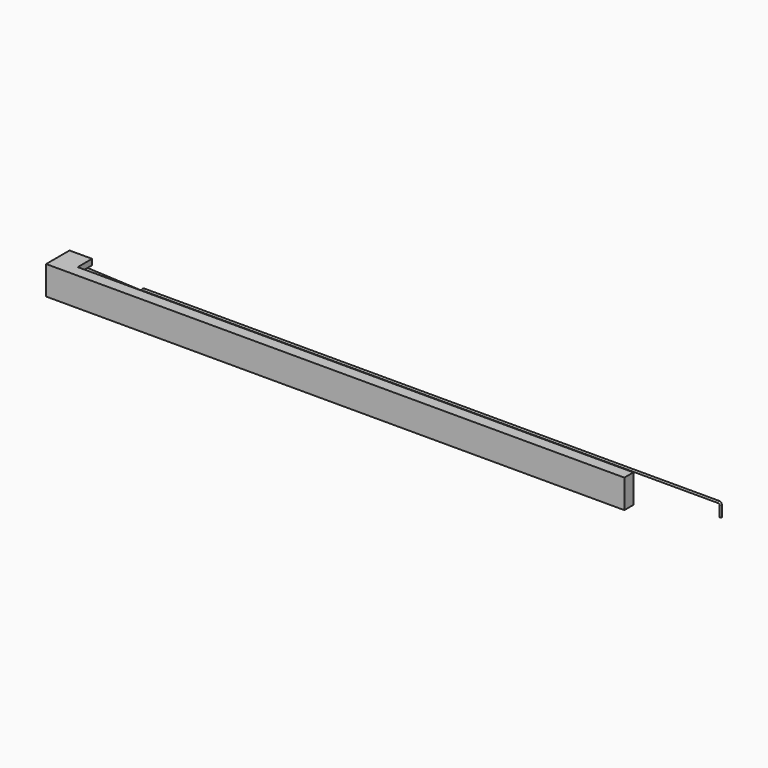
from build123d import *

# Parameters (mm, degrees)
F1_R     = 2.5
F1_R_2   = 0.5
F2_DEPTH = 1.25
F5_R     = 0.5
F8_DEPTH = 300
F7_W     = 9.3189708423
F7_H     = 2.9665171169
F7_H_2   = 2.5825281627
F9_DEPTH = 11.7


with BuildPart() as f2:
    # F1 (on face) → F2 (new body, symmetric)
    with BuildSketch(Plane.XY):
        with BuildLine():
            ThreePointArc((40.15625, -2.4951124098), (42.5, 0), (40.15625, 2.4951124098))
            Line((40.15625, 2.4951124098), (0.3125, 4.9902248196))
            ThreePointArc((0.3125, 4.9902248196), (-5, 0), (0.3125, -4.9902248196))
            Line((0.3125, -4.9902248196), (40.15625, -2.4951124098))
        make_face()
        Circle(F1_R, mode=Mode.SUBTRACT)
        with Locations((40, 0)):
            Circle(F1_R_2, mode=Mode.SUBTRACT)
    extrude(amount=F2_DEPTH, both=True)


with BuildPart() as f6:
    # F6: sweep along a path in F3
    with BuildLine(Plane.XZ) as f6_path:
        Line((339.9458743632, -2.672146773), (339.9458743632, 2.8238787092))
        ThreePointArc((339.9458743632, 2.8238787092), (339.6529811444, 3.5309854904), (338.9458743632, 3.8238787092))
        Line((338.9458743632, 3.8238787092), (40.9458743632, 3.8238787092))
        ThreePointArc((40.9458743632, 3.8238787092), (40.238767582, 3.5309854904), (39.9458743632, 2.8238787092))
        Line((39.9458743632, 2.8238787092), (39.9458743632, 0))
        Line((39.9458743632, 0), (39.9458743632, -1.672146773))
        ThreePointArc((39.9458743632, -1.672146773), (39.6529811444, -2.3792535542), (38.9458743632, -2.672146773))
        Line((38.9458743632, -2.672146773), (32.4798679948, -2.672146773))
    # F5 (on plane+point) → F6 (sweep)
    with BuildSketch(Plane.XY.offset(-2.672146773)):
        with Locations((339.9465382099, 0)):
            Circle(F5_R)
    sweep(path=f6_path.line)


with BuildPart() as f8:
    # F7 (on Right) → F8 (new body)
    with BuildSketch(Plane.YZ):
        Polygon((-6.6419336945, 7.4009038508), (-12.5363953412, 7.4009038508), (-12.5363953412, -7.4531384744), (-6.6419336945, -7.4531384744), (-6.6419336945, -4.8706103116), (-6.6419336945, 4.4343867339), align=None)
    extrude(amount=F8_DEPTH)

    # F7 (on Right) → F9 (join)
    with BuildSketch(Plane.YZ):
        with Locations((-1.9824482733, 5.9176452924)):
            Rectangle(F7_W, F7_H)
        with Locations((-1.9824482733, -6.161874393)):
            Rectangle(F7_W, F7_H_2)
    extrude(amount=F9_DEPTH)


solid = Compound([f2.part, f6.part, f8.part])
